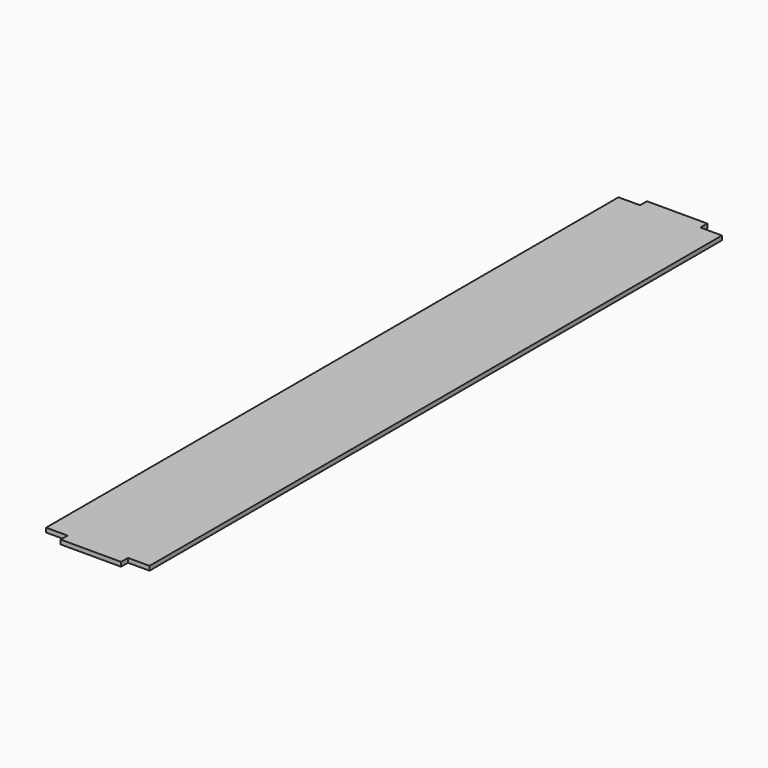
from build123d import *

# Parameters (mm, degrees)
F1_DEPTH = 425
F2_W     = 25
F2_H     = 10
F3_DEPTH = 5.001


with BuildPart() as f1:
    # F0 (on Front) → F1 (new body, symmetric)
    with BuildSketch(Plane.XZ):
        Polygon((-60, 5), (-60, 0), (0, 0), (60, 0), (60, 5), (0, 5), align=None)
    extrude(amount=F1_DEPTH, both=True)

    # F2 (on face) → F3 (cut, through all)
    with BuildSketch(Plane.XY.offset(5)):
        with Locations((47.5, -420)):
            Rectangle(F2_W, F2_H)
        with Locations((-47.5, -420)):
            Rectangle(F2_W, F2_H)
        with Locations((-47.5, 420)):
            Rectangle(F2_W, F2_H)
        with Locations((47.5, 420)):
            Rectangle(F2_W, F2_H)
    extrude(amount=-F3_DEPTH, mode=Mode.SUBTRACT)


solid = f1.part
